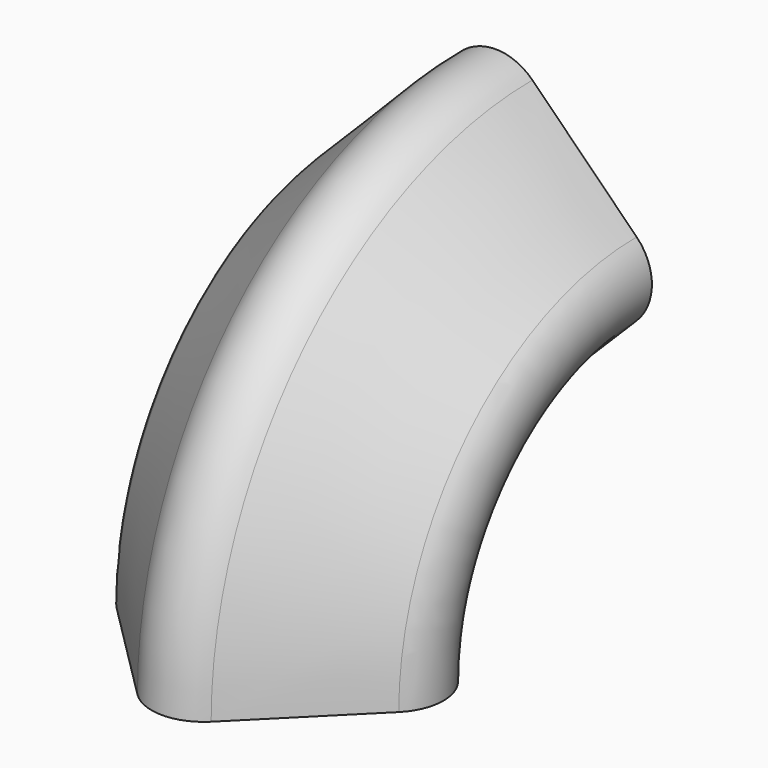
from build123d import *


with BuildPart() as part:
    # AdditivePipe: sweep along a path in Sketch001
    with BuildLine(Plane.YZ) as additivepipe_path:
        ThreePointArc((2.499999, 2.5), (0.732233, 1.767767), (0, 0))
    # Sketch → AdditivePipe (sweep)
    with BuildSketch(Plane.XY):
        with BuildLine():
            Line((1.353553, 0.353553), (0.353553, 1.353553))
            ThreePointArc((0.353553, 1.353553), (0, 1.5), (-0.353553, 1.353553))
            Line((-0.353553, 1.353553), (-1.353553, 0.353553))
            ThreePointArc((-1.353553, 0.353553), (-1.5, 0), (-1.353553, -0.353553))
            Line((-1.353553, -0.353553), (-0.353553, -1.353553))
            ThreePointArc((-0.353553, -1.353553), (0, -1.5), (0.353553, -1.353553))
            Line((0.353553, -1.353553), (1.353553, -0.353553))
            ThreePointArc((1.353553, -0.353553), (1.5, 0), (1.353553, 0.353553))
        make_face()
        with BuildLine():
            ThreePointArc((0, 0.95), (-0.671751, -0.671751), (0.95, 0))
            ThreePointArc((0.95, 0), (0.75, 0.2), (0.55, 0))
            ThreePointArc((0, 0.55), (-0.388909, -0.388909), (0.55, 0))
            ThreePointArc((0, 0.55), (0.2, 0.75), (0, 0.95))
        make_face(mode=Mode.SUBTRACT)
    sweep(path=additivepipe_path.line)


solid = part.part
